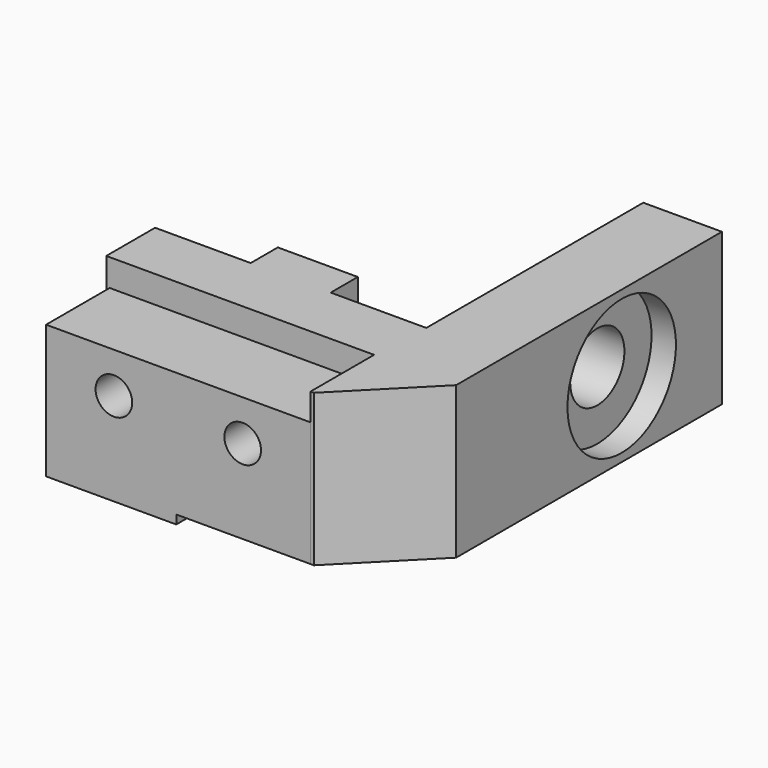
from build123d import *

# Parameters (mm, degrees)
F0_R          = 1.35
F0_W          = 9.6
F0_H          = 0.65
F1_DEPTH      = 2.93
F1_DEPTH_BACK = 2.93
F2_W          = 1.65
F2_H          = 3
F3_DEPTH      = 5.7
F4_W          = 5.9
F4_H          = 2.5
F5_DEPTH      = 6.6
F5_DEPTH_BACK = 4.6
F6_DEPTH      = 25
F8_R          = 2.5
F9_DEPTH      = 25
F10_START     = -4
F8_R_2        = 5
F10_DEPTH     = 21


with BuildPart() as f1:
    # F0 (on Front) → F1 (new body, two sides)
    with BuildSketch(Plane.XZ) as f1_sk:
        Polygon((-0.15, -4.6), (9.75, -4.6), (9.75, 4.6), (-9.75, 4.6), (-9.75, -4.6), align=None)
        with Locations((-4.75, 1.6)):
            Circle(F0_R, mode=Mode.SUBTRACT)
        with Locations((4.75, 1.6)):
            Circle(F0_R, mode=Mode.SUBTRACT)
        with Locations((-4.95, -4.925)):
            Rectangle(F0_W, F0_H)
    extrude(amount=F1_DEPTH)
    extrude(f1_sk.sketch, amount=-F1_DEPTH_BACK)

    # F2 (on Top) → F3 (join)
    with BuildSketch(Plane.XY):
        with Locations((-3.525, 0)):
            Rectangle(F2_W, F2_H)
    extrude(amount=-F3_DEPTH)


with BuildPart() as f5:
    # F4 (on Top) → F5 (new body, two sides)
    with BuildSketch(Plane.XY) as f5_sk:
        Polygon((9.75, 2.93), (10, 2.93), (10, 7.43), (2.95, 7.43), (-2.95, 7.43), (-10, 7.43), (-10, 2.93), align=None)
        Polygon((11.3, 2.93), (10, 2.93), (9.75, 2.93), (9.75, -2.93), (10, -2.93), (15.8, 2.93), align=None)
        Polygon((10, 7.43), (10, 2.93), (11.3, 2.93), (15.8, 2.93), (15.8, 27.43), (10, 27.43), align=None)
        with Locations((0, 8.68)):
            Rectangle(F4_W, F4_H)
    extrude(amount=F5_DEPTH)
    extrude(f5_sk.sketch, amount=-F5_DEPTH_BACK)

    # F0 (on Front) → F6 (cut)
    with BuildSketch(Plane.XZ):
        with Locations((-4.75, 1.6)):
            Circle(F0_R)
        with Locations((4.75, 1.6)):
            Circle(F0_R)
    extrude(amount=-F6_DEPTH, mode=Mode.SUBTRACT)

    # F8 (on offset) → F9 (cut)
    with BuildSketch(Plane(origin=(10, 0, 0), x_dir=(0, -1, 0), z_dir=(-1, 0, 0))):
        with Locations((-18.1929276971, 1)):
            Circle(F8_R)
    extrude(amount=-F9_DEPTH, mode=Mode.SUBTRACT)

    # F8 (on offset) → F10 (cut)
    with BuildSketch(Plane(origin=(10, 0, 0), x_dir=(0, -1, 0), z_dir=(-1, 0, 0)).offset(F10_START)):
        with Locations((-18.1929276971, 1)):
            Circle(F8_R_2)
        with Locations((-18.1929276971, 1)):
            Circle(F8_R, mode=Mode.SUBTRACT)
    extrude(amount=-F10_DEPTH, mode=Mode.SUBTRACT)


solid = Compound([f1.part, f5.part])
